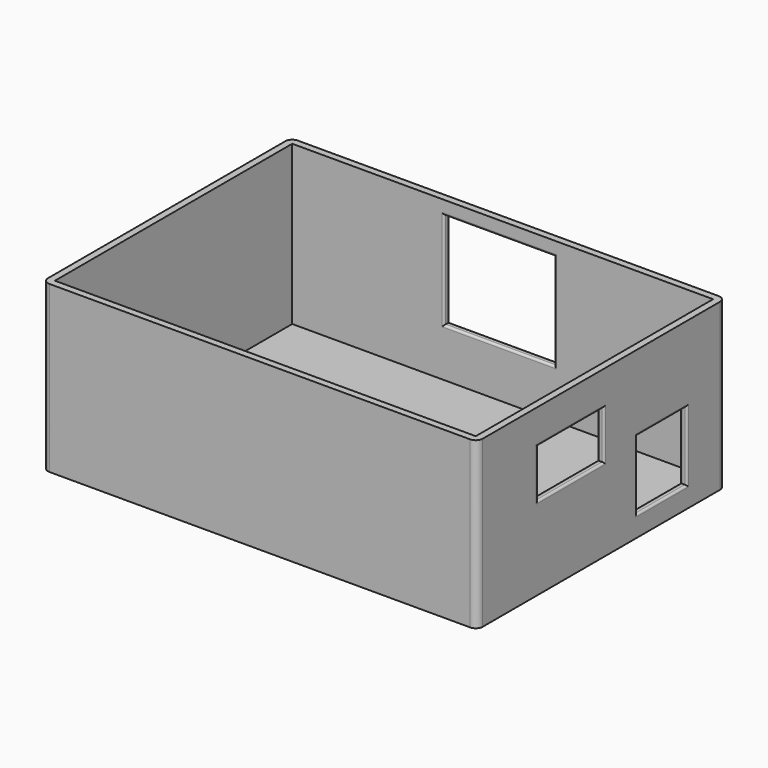
from build123d import *

# Parameters (mm, degrees)
SKETCH_W        = 63
SKETCH_H        = 45
PAD_DEPTH       = 24
SKETCH001_W     = 61
SKETCH001_H     = 43
POCKET_DEPTH    = 23
SKETCH002_W     = 12
SKETCH002_H     = 7
SKETCH002_W_2   = 9
SKETCH002_H_2   = 10
POCKET001_DEPTH = 2.5
SKETCH003_W     = 16
SKETCH003_H     = 14
POCKET002_DEPTH = 2.5
FILLET_R        = 1
FILLET001_R     = 1
FILLET002_R     = 1
FILLET003_R     = 1
FILLET004_R     = 0.3
FILLET005_R     = 0.3
FILLET006_R     = 0.3
FILLET007_R     = 0.3
FILLET008_R     = 0.3
FILLET009_R     = 0.3


with BuildPart() as part:
    # Sketch → Pad (new body)
    with BuildSketch(Plane.XY):
        Rectangle(SKETCH_W, SKETCH_H)
    extrude(amount=PAD_DEPTH)

    # Sketch001 → Pocket (cut)
    with BuildSketch(Plane.XY.offset(24)):
        Rectangle(SKETCH001_W, SKETCH001_H)
    extrude(amount=-POCKET_DEPTH, mode=Mode.SUBTRACT)

    # Sketch002 → Pocket001 (cut, symmetric)
    with BuildSketch(Plane.YZ.offset(30)):
        with Locations((-5.5, 15.5)):
            Rectangle(SKETCH002_W, SKETCH002_H)
        with Locations((11, 8)):
            Rectangle(SKETCH002_W_2, SKETCH002_H_2)
    extrude(amount=POCKET001_DEPTH, both=True, mode=Mode.SUBTRACT)

    # Sketch003 → Pocket002 (cut, symmetric)
    with BuildSketch(Plane.XZ.offset(-23)):
        with Locations((-0.5, 15)):
            Rectangle(SKETCH003_W, SKETCH003_H)
    extrude(amount=POCKET002_DEPTH, both=True, mode=Mode.SUBTRACT)

    # Fillet
    fillet_edges = [part.edges().sort_by_distance(p)[0] for p in [
        (31.5, 22.5, 12),
    ]]
    fillet(fillet_edges, radius=FILLET_R)

    # Fillet001
    fillet001_edges = [part.edges().sort_by_distance(p)[0] for p in [
        (31.5, -22.5, 12),
    ]]
    fillet(fillet001_edges, radius=FILLET001_R)

    # Fillet002
    fillet002_edges = [part.edges().sort_by_distance(p)[0] for p in [
        (-31.5, -22.5, 12),
    ]]
    fillet(fillet002_edges, radius=FILLET002_R)

    # Fillet003
    fillet003_edges = [part.edges().sort_by_distance(p)[0] for p in [
        (-31.5, 22.5, 12),
    ]]
    fillet(fillet003_edges, radius=FILLET003_R)

    # Fillet004
    fillet004_edges = [part.edges().sort_by_distance(p)[0] for p in [
        (-0.5, 22.5, 8),
    ]]
    fillet(fillet004_edges, radius=FILLET004_R)

    # Fillet005
    fillet005_edges = [part.edges().sort_by_distance(p)[0] for p in [
        (7.5, 22.5, 15),
        (-8.5, 22.5, 15),
    ]]
    fillet(fillet005_edges, radius=FILLET005_R)

    # Fillet006
    fillet006_edges = [part.edges().sort_by_distance(p)[0] for p in [
        (-0.5, 22.5, 22),
    ]]
    fillet(fillet006_edges, radius=FILLET006_R)

    # Fillet007
    fillet007_edges = [part.edges().sort_by_distance(p)[0] for p in [
        (31.5, 11, 3),
        (31.5, 6.5, 8),
        (31.5, 11, 13),
        (31.5, 15.5, 8),
        (31.5, -5.5, 12),
        (31.5, 0.5, 15.5),
        (31.5, -5.5, 19),
        (31.5, -11.5, 15.5),
    ]]
    fillet(fillet007_edges, radius=FILLET007_R)

    # Fillet008
    fillet008_edges = [part.edges().sort_by_distance(p)[0] for p in [
        (-0.5, 21.5, 22),
        (-0.5, 21.5, 8),
        (-8.5, 21.5, 15),
        (7.5, 21.5, 15),
    ]]
    fillet(fillet008_edges, radius=FILLET008_R)

    # Fillet009
    fillet009_edges = [part.edges().sort_by_distance(p)[0] for p in [
        (30.5, 11, 3),
        (30.5, 6.5, 8),
        (30.5, 11, 13),
        (30.5, 15.5, 8),
        (30.5, -5.5, 12),
        (30.5, -11.5, 15.5),
        (30.5, -5.5, 19),
        (30.5, 0.5, 15.5),
    ]]
    fillet(fillet009_edges, radius=FILLET009_R)


solid = part.part
